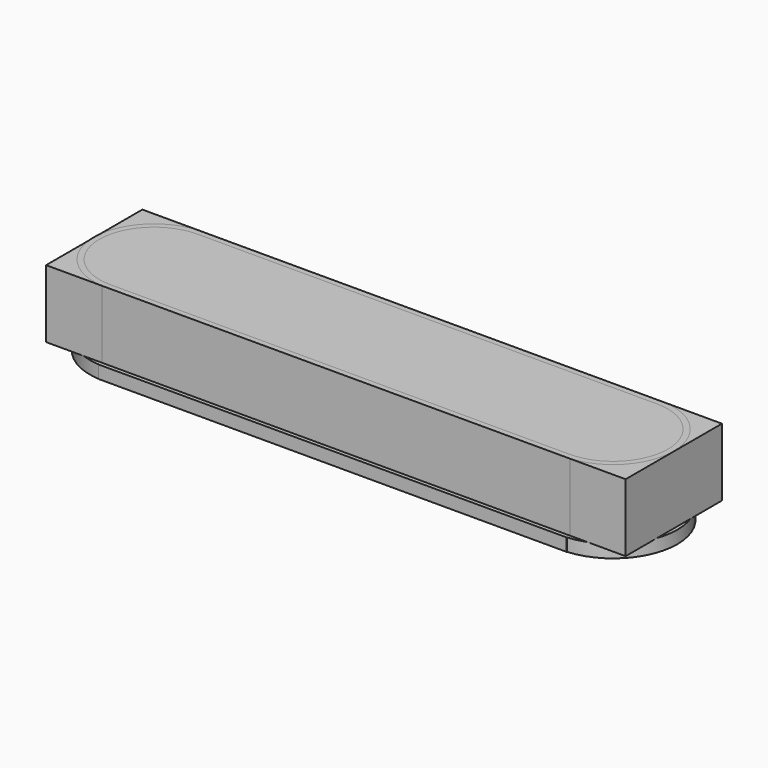
from build123d import *

# Parameters (mm, degrees)
BOX_W             = 72.7
BOX_H             = 15.1
BOX_DEPTH         = 8.5
CYLINDER003_R     = 8.05
CYLINDER003_DEPTH = 1.6
BOX002_W          = 58.7
BOX002_H          = 16.1
BOX002_DEPTH      = 1.6
CYLINDER002_R     = 8.05
CYLINDER002_DEPTH = 1.6
CYLINDER004_R     = 6.85
CYLINDER004_DEPTH = 8.5
CYLINDER005_R     = 6.85
CYLINDER005_DEPTH = 8.5
BOX003_W          = 57.3
BOX003_H          = 13.7
BOX003_DEPTH      = 8.5
CYLINDER001_R     = 7.55
CYLINDER001_DEPTH = 8.5
BOX001_W          = 58.7
BOX001_H          = 15.1
BOX001_DEPTH      = 8.5
CYLINDER_R        = 7.55
CYLINDER_DEPTH    = 8.5


with BuildPart() as cube:
    # Box → Box (new body)
    with BuildSketch(Plane.XY):
        with Locations((36.35, 7.55)):
            Rectangle(BOX_W, BOX_H)
    extrude(amount=BOX_DEPTH)


with BuildPart() as cylinder003:
    # Cylinder003 → Cylinder003 (new body)
    with BuildSketch(Plane(origin=(65.1, 7.55, 0), x_dir=(1, 0, 0), z_dir=(0, 0, 1))):
        Circle(CYLINDER003_R)
    extrude(amount=CYLINDER003_DEPTH)


with BuildPart() as cube002:
    # Box002 → Box002 (new body)
    with BuildSketch(Plane(origin=(7, -0.5, 0), x_dir=(1, 0, 0), z_dir=(0, 0, 1))):
        with Locations((29.35, 8.05)):
            Rectangle(BOX002_W, BOX002_H)
    extrude(amount=BOX002_DEPTH)


with BuildPart() as fusion002:
    # Cylinder002 → Cylinder002 (new body)
    with BuildSketch(Plane(origin=(7.5, 7.55, 0), x_dir=(1, 0, 0), z_dir=(0, 0, 1))):
        Circle(CYLINDER002_R)
    extrude(amount=CYLINDER002_DEPTH)

    # Fusion002: union Cylinder003, Cube002
    add(cylinder003.part)
    add(cube002.part)


with BuildPart() as fusion002_1:
    # Fusion002 placement: moved
    add(fusion002.part.moved(Location((0, 0, -1.6))))


with BuildPart() as cylinder004:
    # Cylinder004 → Cylinder004 (new body)
    with BuildSketch(Plane(origin=(65.1, 7.55, 0), x_dir=(1, 0, 0), z_dir=(0, 0, 1))):
        Circle(CYLINDER004_R)
    extrude(amount=CYLINDER004_DEPTH)


with BuildPart() as cylinder005:
    # Cylinder005 → Cylinder005 (new body)
    with BuildSketch(Plane(origin=(7.5, 7.55, 0), x_dir=(1, 0, 0), z_dir=(0, 0, 1))):
        Circle(CYLINDER005_R)
    extrude(amount=CYLINDER005_DEPTH)


with BuildPart() as fusion001:
    # Box003 → Box003 (new body)
    with BuildSketch(Plane(origin=(7.7, 0.7, 0), x_dir=(1, 0, 0), z_dir=(0, 0, 1))):
        with Locations((28.65, 6.85)):
            Rectangle(BOX003_W, BOX003_H)
    extrude(amount=BOX003_DEPTH)

    # Fusion001: union Cylinder004, Cylinder005
    add(cylinder004.part)
    add(cylinder005.part)


with BuildPart() as cylinder001:
    # Cylinder001 → Cylinder001 (new body)
    with BuildSketch(Plane(origin=(65.1, 7.55, 0), x_dir=(1, 0, 0), z_dir=(0, 0, 1))):
        Circle(CYLINDER001_R)
    extrude(amount=CYLINDER001_DEPTH)


with BuildPart() as cube001:
    # Box001 → Box001 (new body)
    with BuildSketch(Plane(origin=(7, 0, 0), x_dir=(1, 0, 0), z_dir=(0, 0, 1))):
        with Locations((29.35, 7.55)):
            Rectangle(BOX001_W, BOX001_H)
    extrude(amount=BOX001_DEPTH)


with BuildPart() as fusion003:
    # Cylinder → Cylinder (new body)
    with BuildSketch(Plane(origin=(7.5, 7.55, 0), x_dir=(1, 0, 0), z_dir=(0, 0, 1))):
        Circle(CYLINDER_R)
    extrude(amount=CYLINDER_DEPTH)

    # Fusion: union Cylinder001, Cube001
    add(cylinder001.part)
    add(cube001.part)

    # Cut: cut Fusion001
    add(fusion001.part, mode=Mode.SUBTRACT)

    # Fusion003: union Fusion002
    add(fusion002_1.part)


solid = Compound([cube.part, fusion003.part])
